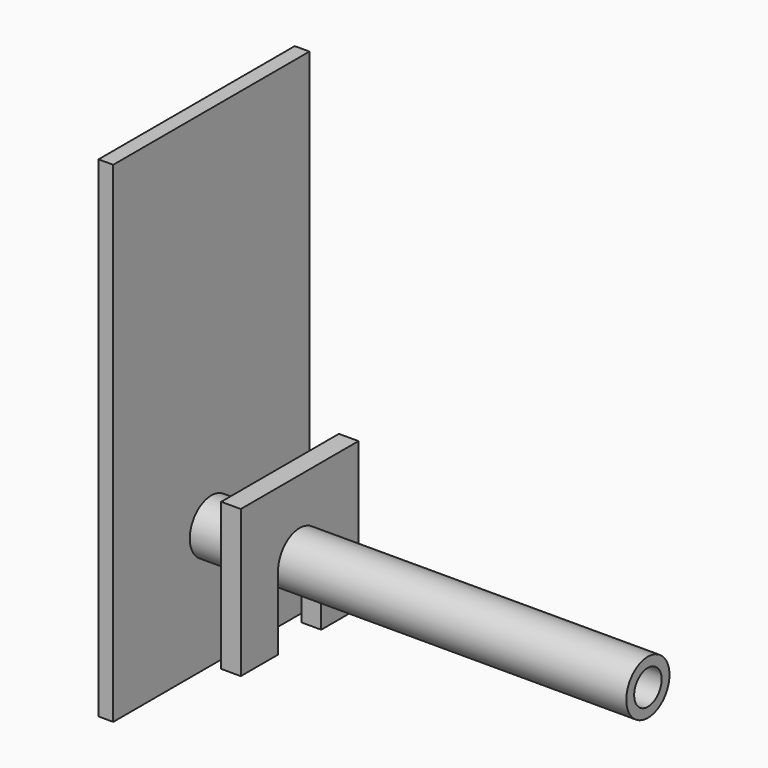
from build123d import *

# Parameters (mm, degrees)
F0_R     = 5.5
F0_R_2   = 3.5
F1_DEPTH = 100
F4_W     = 50
F4_H     = 100
F4_R     = 5.5
F5_DEPTH = 3
F7_DEPTH = 4


with BuildPart() as f1:
    # F0 (on Right) → F1 (new body)
    with BuildSketch(Plane.YZ):
        Circle(F0_R)
        Circle(F0_R_2, mode=Mode.SUBTRACT)
    extrude(amount=F1_DEPTH)


with BuildPart() as f5:
    # F4 (on offset) → F5 (new body)
    with BuildSketch(Plane.YZ.offset(8)):
        with Locations((0, 25)):
            Rectangle(F4_W, F4_H)
        Circle(F4_R, mode=Mode.SUBTRACT)
    extrude(amount=F5_DEPTH)


with BuildPart() as f7:
    # F6 (on offset) → F7 (new body)
    with BuildSketch(Plane.YZ.offset(25)):
        with BuildLine():
            ThreePointArc((-5.5, 0), (0, 5.5), (5.5, 0))
            Line((5.5, 0), (5.5, -15))
            Line((5.5, -15), (15, -15))
            Line((15, -15), (15, 15))
            Line((15, 15), (-15, 15))
            Line((-15, 15), (-15, -15))
            Line((-15, -15), (-5.5, -15))
            Line((-5.5, -15), (-5.5, 0))
        make_face()
    extrude(amount=F7_DEPTH)


solid = Compound([f1.part, f5.part, f7.part])
